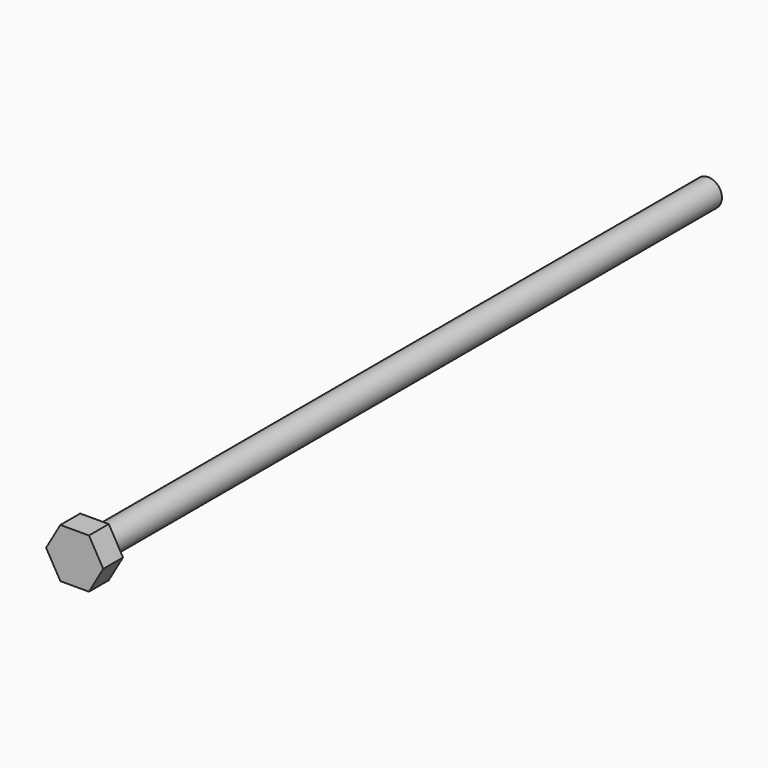
from build123d import *

# Parameters (mm, degrees)
F0_R     = 3.5052
F1_DEPTH = 203.2
F3_DEPTH = 6.35


with BuildPart() as f1:
    # F0 (on Front) → F1 (new body)
    with BuildSketch(Plane.XZ):
        Circle(F0_R)
    extrude(amount=F1_DEPTH)

    # F2 (on face) → F3 (join)
    with BuildSketch(Plane.XZ.offset(203.2)):
        Polygon((7.332348, 0), (3.666174, 6.35), (-3.666174, 6.35), (-7.332348, 0), (-3.666174, -6.35), (3.666174, -6.35), align=None)
    extrude(amount=-F3_DEPTH)


solid = f1.part
